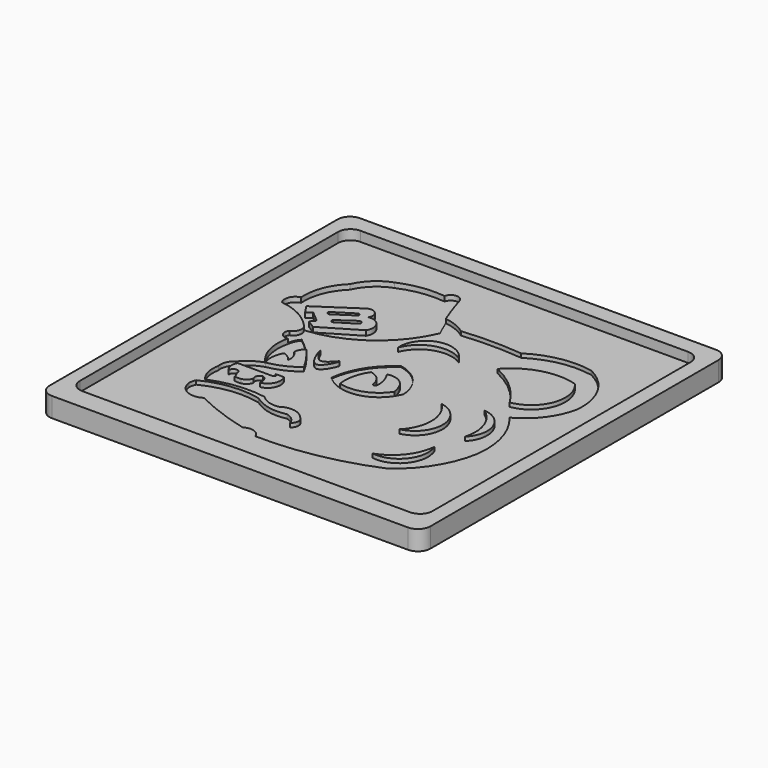
from build123d import *

# Parameters (mm, degrees)
F1_DEPTH = 5
F2_DEPTH = 3
F3_DEPTH = 2.5
F4_DEPTH = 10


with BuildPart() as f1:
    # F0 (on Top) → F1 (new body)
    with BuildSketch(Plane.XY):
        with BuildLine():
            Line((84.4249608159, 88.5654240847), (-82.2154240847, 88.5654240847))
            ThreePointArc((-82.2154240847, 88.5654240847), (-86.7055521452, 86.7055521452), (-88.5654240847, 82.2154240847))
            Line((-88.5654240847, 82.2154240847), (-88.5654240847, -81.8471716881))
            ThreePointArc((-88.5654240847, -81.8471716881), (-86.7055521452, -86.3372997486), (-82.2154240847, -88.1971716881))
            Line((-82.2154240847, -88.1971716881), (84.4249608159, -88.1971716881))
            ThreePointArc((84.4249608159, -88.1971716881), (88.9150888764, -86.3372997486), (90.7749608159, -81.8471716881))
            Line((90.7749608159, -81.8471716881), (90.7749608159, 82.2154240847))
            ThreePointArc((90.7749608159, 82.2154240847), (88.9150888764, 86.7055521452), (84.4249608159, 88.5654240847))
        make_face()
        with BuildLine():
            ThreePointArc((-62.7875477076, 57.6319694519), (-57.606849461, 65.0485479719), (-49.8986057937, 69.7843953967))
            ThreePointArc((-49.8986057937, 69.7843953967), (-38.6932867939, 72.9692608709), (-27.0448625088, 73.0986967683))
            ThreePointArc((-27.0448625088, 73.0986967683), (-23.3620079234, 76.1603482048), (-19.6791533381, 73.0986967683))
            ThreePointArc((-19.6791533381, 73.0986967683), (-17.2389814468, 65.5307254854), (-14.4308104565, 58.091451066))
            ThreePointArc((-14.4308104565, 58.091451066), (-8.4792833707, 56.5626230733), (-3.1063079368, 53.5811595619))
            ThreePointArc((-3.1063079368, 53.5811595619), (12.1775396401, 54.3361452989), (27.461387217, 53.5811595619))
            ThreePointArc((27.461387217, 53.5811595619), (42.3631176642, 59.5003092455), (58.3973675966, 59.473246336))
            ThreePointArc((58.3973675966, 59.473246336), (71.4266170924, 47.1940207122), (74.970215559, 29.6445582062))
            ThreePointArc((74.970215559, 29.6445582062), (69.1680433065, 16.7335554513), (58.3973675966, 7.5492351316))
            ThreePointArc((58.3973675966, 7.5492351316), (66.5921862821, -7.5634220418), (67.9315254092, -24.7026644647))
            ThreePointArc((67.9315254092, -24.7026644647), (61.1489606665, -42.7300074924), (48.1113679707, -56.907787919))
            ThreePointArc((48.1113679707, -56.907787919), (19.4322071761, -65.5613202295), (-10.420027189, -68.0557116866))
            ThreePointArc((-10.420027189, -68.0557116866), (-14.0655777602, -64.515040421), (-19.0913453698, -65.2687326074))
            ThreePointArc((-19.0913453698, -65.2687326074), (-33.3044679105, -60.9149895825), (-46.9634383917, -55.0497993827))
            ThreePointArc((-46.9634383917, -55.0497993827), (-55.1172893355, -55.3230586211), (-59.6607252955, -48.5468395054))
            ThreePointArc((-59.6607252955, -48.5468395054), (-59.4714942603, -46.762467778), (-58.8657595238, -45.073421812))
            ThreePointArc((-58.8657595238, -45.073421812), (-57.8778662819, -43.575470615), (-56.5638281405, -42.3535481095))
            ThreePointArc((-56.5638281405, -42.3535481095), (-59.5744291121, -36.5258235087), (-59.6607252955, -29.9669634551))
            ThreePointArc((-59.6607252955, -29.9669634551), (-59.2836893384, -25.7628592589), (-56.5638281405, -22.5350111723))
            ThreePointArc((-56.5638281405, -22.5350111723), (-52.2550509834, -18.5580474086), (-46.9634383917, -16.0320550203))
            ThreePointArc((-46.9634383917, -16.0320550203), (-52.70575672, -5.9539262239), (-52.8475493193, 5.6444699876))
            ThreePointArc((-52.8475493193, 5.6444699876), (-56.5637348257, 7.1926538), (-56.5638281405, 11.2184341997))
            ThreePointArc((-56.5638281405, 11.2184341997), (-53.7020296308, 14.2057132435), (-54.6662732959, 18.2286426425))
            ThreePointArc((-54.6662732959, 18.2286426425), (-63.4746227132, 25.1848782166), (-74.1854012012, 28.5397935659))
            ThreePointArc((-74.1854012012, 28.5397935659), (-74.6238412054, 33.448014682), (-70.8708316088, 36.6414114833))
            ThreePointArc((-70.8708316088, 36.6414114833), (-69.1975687177, 48.048732937), (-62.7875477076, 57.6319694519))
        make_face(mode=Mode.SUBTRACT)
        with BuildLine():
            ThreePointArc((-28.7225786597, -39.2803773284), (-42.8661816574, -38.7969014422), (-56.5638281405, -42.3535481095))
            ThreePointArc((-56.5638281405, -42.3535481095), (-57.8778662819, -43.575470615), (-58.8657595238, -45.073421812))
            ThreePointArc((-58.8657595238, -45.073421812), (-44.6417469149, -40.8053213785), (-29.8174992204, -41.6890047491))
            ThreePointArc((-29.8174992204, -41.6890047491), (-21.5812688527, -45.4725447649), (-12.5177744776, -45.411426574))
            ThreePointArc((-12.5177744776, -45.411426574), (-8.9704842296, -47.1376000359), (-6.8241944537, -50.4476428032))
            ThreePointArc((-6.8241944537, -50.4476428032), (-5.0707260091, -47.2726356238), (-6.8241944537, -44.0976284444))
            ThreePointArc((-6.8241944537, -44.0976284444), (-12.5072467027, -40.884526158), (-18.8683066517, -42.3535481095))
            ThreePointArc((-18.8683066517, -42.3535481095), (-24.193401272, -42.0930364333), (-28.7225786597, -39.2803773284))
        make_face()
    extrude(amount=F1_DEPTH)

    # F0 (on Top) → F4 (join)
    with BuildSketch(Plane.XY):
        with BuildLine():
            Line((91.9400634408, 96.8792364001), (-89.0944780946, 96.8792364001))
            ThreePointArc((-89.0944780946, 96.8792364001), (-93.5846061551, 95.0193644607), (-95.4444780946, 90.5292364001))
            Line((-95.4444780946, 90.5292364001), (-95.4444780946, -92.5884651184))
            ThreePointArc((-95.4444780946, -92.5884651184), (-93.5846061551, -97.0785931789), (-89.0944780946, -98.9384651184))
            Line((-89.0944780946, -98.9384651184), (91.9400634408, -98.9384651184))
            ThreePointArc((91.9400634408, -98.9384651184), (96.4301915013, -97.0785931789), (98.2900634408, -92.5884651184))
            Line((98.2900634408, -92.5884651184), (98.2900634408, 90.5292364001))
            ThreePointArc((98.2900634408, 90.5292364001), (96.4301915013, 95.0193644607), (91.9400634408, 96.8792364001))
        make_face()
        with BuildLine():
            ThreePointArc((-88.5654240847, 82.2154240847), (-86.7055521452, 86.7055521452), (-82.2154240847, 88.5654240847))
            Line((-82.2154240847, 88.5654240847), (84.4249608159, 88.5654240847))
            ThreePointArc((84.4249608159, 88.5654240847), (88.9150888764, 86.7055521452), (90.7749608159, 82.2154240847))
            Line((90.7749608159, 82.2154240847), (90.7749608159, -81.8471716881))
            ThreePointArc((90.7749608159, -81.8471716881), (88.9150888764, -86.3372997486), (84.4249608159, -88.1971716881))
            Line((84.4249608159, -88.1971716881), (-82.2154240847, -88.1971716881))
            ThreePointArc((-82.2154240847, -88.1971716881), (-86.7055521452, -86.3372997486), (-88.5654240847, -81.8471716881))
            Line((-88.5654240847, -81.8471716881), (-88.5654240847, 82.2154240847))
        make_face(mode=Mode.SUBTRACT)
    extrude(amount=F4_DEPTH)


with BuildPart() as f1b:
    # F0 (on Top) → F1, piece 2 (new body)
    with BuildSketch(Plane.XY):
        with BuildLine():
            ThreePointArc((50.8457347751, -30.7290349156), (45.9372802461, -42.9169442785), (35.2207049727, -50.5191199481))
            ThreePointArc((35.2207049727, -50.5191199481), (48.7227366321, -45.1161687372), (50.8457347751, -30.7290349156))
        make_face()
    extrude(amount=F1_DEPTH)


with BuildPart() as f1c:
    # F0 (on Top) → F1, piece 3 (new body)
    with BuildSketch(Plane.XY):
        with BuildLine():
            ThreePointArc((29.751945287, 0), (36.0598322415, -13.6346726912), (30.5331964046, -27.604283765))
            ThreePointArc((30.5331964046, -27.604283765), (41.5395779371, -13.4795859849), (29.751945287, 0))
        make_face()
    extrude(amount=F1_DEPTH)


with BuildPart() as f1d:
    # F0 (on Top) → F1, piece 4 (new body)
    with BuildSketch(Plane.XY):
        with BuildLine():
            Line((-37.5034287572, -23.2996158302), (-55.2411228418, -23.2996158302))
            ThreePointArc((-55.2411228418, -23.2996158302), (-55.8309711553, -26.9807912365), (-54.1462004185, -30.3065273911))
            ThreePointArc((-54.1462004185, -30.3065273911), (-52.1206017584, -27.8755716366), (-50.0950030982, -30.3065273911))
            ThreePointArc((-50.0950030982, -30.3065273911), (-49.3669318647, -31.6300955906), (-48.8905906677, -33.063629533))
            ThreePointArc((-48.8905906677, -33.063629533), (-47.3086831332, -33.1584654192), (-45.7267755987, -33.063629533))
            ThreePointArc((-45.7267755987, -33.063629533), (-43.3830718645, -31.9699605934), (-42.0725664327, -29.7402443656))
            ThreePointArc((-42.0725664327, -29.7402443656), (-42.2097596782, -27.2977722411), (-40.3502210975, -25.7082413882))
            ThreePointArc((-40.3502210975, -25.7082413882), (-38.134430128, -27.8129135924), (-37.8319062293, -30.8539420366))
            ThreePointArc((-37.8319062293, -30.8539420366), (-33.0655662363, -27.2116945709), (-33.3427377045, -21.2194379419))
            Line((-33.3427377045, -21.2194379419), (-37.5034287572, -21.2194379419))
            ThreePointArc((-37.5034287572, -21.2194379419), (-36.4633398131, -22.259526886), (-37.5034287572, -23.2996158302))
        make_face()
    extrude(amount=F1_DEPTH)


with BuildPart() as f1e:
    # F0 (on Top) → F1, piece 5 (new body)
    with BuildSketch(Plane.XY):
        with BuildLine():
            ThreePointArc((28.5292305052, 37.2948311269), (40.8829977308, 29.1688042971), (50.3098433953, 17.7765939093))
            ThreePointArc((50.3098433953, 17.7765939093), (63.9705009054, 29.0368778501), (60.5605430901, 46.4086867869))
            ThreePointArc((60.5605430901, 46.4086867869), (43.2055298805, 46.5590268442), (28.5292305052, 37.2948311269))
        make_face()
    extrude(amount=F1_DEPTH)


with BuildPart() as f1f:
    # F0 (on Top) → F1, piece 6 (new body)
    with BuildSketch(Plane.XY):
        with BuildLine():
            ThreePointArc((46.7472821474, 6.1718453653), (54.3905560283, -3.7442250043), (54.8495613039, -16.2557157767))
            ThreePointArc((54.8495613039, -16.2557157767), (57.9265772661, -2.4667864548), (46.7472821474, 6.1718453653))
        make_face()
    extrude(amount=F1_DEPTH)


with BuildPart() as f1g:
    # F0 (on Top) → F1, piece 7 (new body)
    with BuildSketch(Plane.XY):
        with BuildLine():
            ThreePointArc((-13.8354869559, 26.956371963), (-3.5072723159, 36.769350266), (10.6300180778, 35.0076518953))
            ThreePointArc((10.6300180778, 35.0076518953), (-4.7435913219, 40.526165222), (-13.8354869559, 26.956371963))
        make_face()
    extrude(amount=F1_DEPTH)


with BuildPart() as f1h:
    # F0 (on Top) → F1, piece 8 (new body)
    with BuildSketch(Plane.XY):
        with BuildLine():
            Line((-44.758892007, 45.182749629), (-64.5154863596, 31.9854691625))
            Line((-64.5154863596, 31.9854691625), (-61.5930639356, 27.6105440024))
            Line((-61.5930639356, 27.6105440024), (-58.9106027107, 29.4024111883))
            Line((-58.9106027107, 29.4024111883), (-53.4457729719, 24.8212735707))
            Line((-53.4457729719, 24.8212735707), (-55.4794549685, 22.3952984567))
            Line((-55.4794549685, 22.3952984567), (-51.3468310237, 19.7383146733))
            Line((-51.3468310237, 19.7383146733), (-33.0525264144, 30.6098442525))
            ThreePointArc((-33.0525264144, 30.6098442525), (-33.1104304301, 37.2790456688), (-39.2192006111, 39.9557091296))
            ThreePointArc((-39.2192006111, 39.9557091296), (-39.9072019292, 44.7755974761), (-44.758892007, 45.182749629))
        make_face()
        with BuildLine():
            ThreePointArc((-52.771281451, 32.3372147977), (-54.112445977, 32.4424190256), (-54.3336570263, 33.7693914771))
            Line((-54.3336570263, 33.7693914771), (-44.8292084038, 39.7584997118))
            ThreePointArc((-44.8292084038, 39.7584997118), (-43.6708962727, 39.7237156441), (-43.2668328285, 38.6376080723))
            Line((-43.2668328285, 38.6376080723), (-52.771281451, 32.3372147977))
        make_face(mode=Mode.SUBTRACT)
        with BuildLine():
            ThreePointArc((-47.4007800221, 27.8951153159), (-48.6566058264, 28.0366111273), (-48.8195233047, 29.2898379266))
            Line((-48.8195233047, 29.2898379266), (-40.6908281147, 34.9025093019))
            ThreePointArc((-40.6908281147, 34.9025093019), (-38.9460065957, 35.0712439545), (-38.5180450976, 33.3713255823))
            Line((-38.5180450976, 33.3713255823), (-47.4007800221, 27.8951153159))
        make_face(mode=Mode.SUBTRACT)
    extrude(amount=F1_DEPTH)


with BuildPart() as f1i:
    # F0 (on Top) → F1, piece 9 (new body)
    with BuildSketch(Plane.XY):
        with BuildLine():
            ThreePointArc((-46.0808910429, -5.1327659748), (-47.7597090193, -10.4822029117), (-46.9634383917, -16.0320550203))
            ThreePointArc((-46.9634383917, -16.0320550203), (-39.3304755247, -13.7182455163), (-32.5323306024, -9.546787478))
            ThreePointArc((-32.5323306024, -9.546787478), (-36.5111631058, -3.1176660128), (-41.1961520186, 2.8166064609))
            ThreePointArc((-41.1961520186, 2.8166064609), (-43.0512766756, 0.8979108846), (-43.7268130481, -1.6840517055))
            ThreePointArc((-43.7268130481, -1.6840517055), (-41.5921632224, -4.8430030502), (-41.2084981799, -8.6362212896))
            ThreePointArc((-41.2084981799, -8.6362212896), (-43.3629876257, -6.4927126665), (-46.0808910429, -5.1327659748))
        make_face()
    extrude(amount=F1_DEPTH)


with BuildPart() as f1j:
    # F0 (on Top) → F1, piece 10 (new body)
    with BuildSketch(Plane.XY):
        with BuildLine():
            ThreePointArc((-8.963325889, 3.7377043627), (-12.1480532606, -3.6241338577), (-12.4719647189, -11.6387599739))
            ThreePointArc((-12.4719647189, -11.6387599739), (-0.5281101344, -11.149436168), (8.7624308228, -3.6274052691))
            ThreePointArc((8.7624308228, -3.6274052691), (8.3392858217, -1.4682088947), (7.5841476209, 0.5984180607))
            ThreePointArc((7.5841476209, 0.5984180607), (3.456502409, 5.445016188), (-2.8678874951, 6.1723818071))
            ThreePointArc((-2.8678874951, 6.1723818071), (-0.6241944342, 1.5094597371), (0, -3.6274052691))
            ThreePointArc((0, -3.6274052691), (-0.9730836027, -4.4821055882), (-1.9461672055, -3.6274052691))
            ThreePointArc((-1.9461672055, -3.6274052691), (-4.2264778217, 1.2253909939), (-8.963325889, 3.7377043627))
        make_face()
    extrude(amount=F1_DEPTH)


with BuildPart() as f1k:
    # F0 (on Top) → F1, piece 11 (new body)
    with BuildSketch(Plane.XY):
        with BuildLine():
            add(Edge.make_bspline(
                [(-36.4063940942, 5.8001559228), (-36.5694243516, 5.4985822789), (-30.7997676093, -13.1948048335), (-21.3384004347, 9.3466398233), (-31.4326805196, -7.0507418922), (-36.2661790879, 6.059525877), (-36.4063940942, 5.8001559228)],
                knots=[0, 0, 0, 0, 0.2821298962, 0.5338759449, 0.7573527404, 1, 1, 1, 1], degree=3))
        make_face()
    extrude(amount=F1_DEPTH)


with BuildPart() as f2:
    # F0 (on Top) → F2 (new body)
    with BuildSketch(Plane.XY):
        with BuildLine():
            ThreePointArc((-3.1063079368, 53.5811595619), (-8.4792833707, 56.5626230733), (-14.4308104565, 58.091451066))
            ThreePointArc((-14.4308104565, 58.091451066), (-12.6920500857, 53.9702701134), (-10.8403023332, 49.8986057937))
            ThreePointArc((-10.8403023332, 49.8986057937), (-28.3740077738, 28.0034277162), (-54.6662732959, 18.2286426425))
            ThreePointArc((-54.6662732959, 18.2286426425), (-53.7020296308, 14.2057132435), (-56.5638281405, 11.2184341997))
            ThreePointArc((-56.5638281405, 11.2184341997), (-56.5637348257, 7.1926538), (-52.8475493193, 5.6444699876))
            ThreePointArc((-52.8475493193, 5.6444699876), (-52.0523485289, 8.6980112297), (-50.3127127886, 11.3305244595))
            ThreePointArc((-50.3127127886, 11.3305244595), (-45.5537412304, 7.2884622066), (-41.1961520186, 2.8166064609))
            ThreePointArc((-41.1961520186, 2.8166064609), (-36.5111631058, -3.1176660128), (-32.5323306024, -9.546787478))
            ThreePointArc((-32.5323306024, -9.546787478), (-39.3304755247, -13.7182455163), (-46.9634383917, -16.0320550203))
            ThreePointArc((-46.9634383917, -16.0320550203), (-52.2550509834, -18.5580474086), (-56.5638281405, -22.5350111723))
            ThreePointArc((-56.5638281405, -22.5350111723), (-59.2836893384, -25.7628592589), (-59.6607252955, -29.9669634551))
            ThreePointArc((-59.6607252955, -29.9669634551), (-59.5744291121, -36.5258235087), (-56.5638281405, -42.3535481095))
            ThreePointArc((-56.5638281405, -42.3535481095), (-42.8661816574, -38.7969014422), (-28.7225786597, -39.2803773284))
            ThreePointArc((-28.7225786597, -39.2803773284), (-24.193401272, -42.0930364333), (-18.8683066517, -42.3535481095))
            ThreePointArc((-18.8683066517, -42.3535481095), (-12.5072467027, -40.884526158), (-6.8241944537, -44.0976284444))
            ThreePointArc((-6.8241944537, -44.0976284444), (-5.0707260091, -47.2726356238), (-6.8241944537, -50.4476428032))
            ThreePointArc((-6.8241944537, -50.4476428032), (-8.9704842296, -47.1376000359), (-12.5177744776, -45.411426574))
            ThreePointArc((-12.5177744776, -45.411426574), (-21.5812688527, -45.4725447649), (-29.8174992204, -41.6890047491))
            ThreePointArc((-29.8174992204, -41.6890047491), (-44.6417469149, -40.8053213785), (-58.8657595238, -45.073421812))
            ThreePointArc((-58.8657595238, -45.073421812), (-59.4714942603, -46.762467778), (-59.6607252955, -48.5468395054))
            ThreePointArc((-59.6607252955, -48.5468395054), (-55.1172893355, -55.3230586211), (-46.9634383917, -55.0497993827))
            ThreePointArc((-46.9634383917, -55.0497993827), (-33.3044679105, -60.9149895825), (-19.0913453698, -65.2687326074))
            ThreePointArc((-19.0913453698, -65.2687326074), (-14.0655777602, -64.515040421), (-10.420027189, -68.0557116866))
            ThreePointArc((-10.420027189, -68.0557116866), (19.4322071761, -65.5613202295), (48.1113679707, -56.907787919))
            ThreePointArc((48.1113679707, -56.907787919), (61.1489606665, -42.7300074924), (67.9315254092, -24.7026644647))
            ThreePointArc((67.9315254092, -24.7026644647), (66.5921862821, -7.5634220418), (58.3973675966, 7.5492351316))
            ThreePointArc((58.3973675966, 7.5492351316), (69.1680433065, 16.7335554513), (74.970215559, 29.6445582062))
            ThreePointArc((74.970215559, 29.6445582062), (71.4266170924, 47.1940207122), (58.3973675966, 59.473246336))
            ThreePointArc((58.3973675966, 59.473246336), (42.3631176642, 59.5003092455), (27.461387217, 53.5811595619))
            ThreePointArc((27.461387217, 53.5811595619), (12.1775396401, 54.3361452989), (-3.1063079368, 53.5811595619))
        make_face()
        with BuildLine():
            ThreePointArc((-54.1462004185, -30.3065273911), (-55.8309711553, -26.9807912365), (-55.2411228418, -23.2996158302))
            Line((-55.2411228418, -23.2996158302), (-37.5034287572, -23.2996158302))
            ThreePointArc((-37.5034287572, -23.2996158302), (-36.4633398131, -22.259526886), (-37.5034287572, -21.2194379419))
            Line((-37.5034287572, -21.2194379419), (-33.3427377045, -21.2194379419))
            ThreePointArc((-33.3427377045, -21.2194379419), (-33.0655662363, -27.2116945709), (-37.8319062293, -30.8539420366))
            ThreePointArc((-37.8319062293, -30.8539420366), (-38.134430128, -27.8129135924), (-40.3502210975, -25.7082413882))
            ThreePointArc((-40.3502210975, -25.7082413882), (-42.2097596782, -27.2977722411), (-42.0725664327, -29.7402443656))
            ThreePointArc((-42.0725664327, -29.7402443656), (-43.3830718645, -31.9699605934), (-45.7267755987, -33.063629533))
            ThreePointArc((-45.7267755987, -33.063629533), (-47.3086831332, -33.1584654192), (-48.8905906677, -33.063629533))
            ThreePointArc((-48.8905906677, -33.063629533), (-49.3669318647, -31.6300955906), (-50.0950030982, -30.3065273911))
            ThreePointArc((-50.0950030982, -30.3065273911), (-52.1206017584, -27.8755716366), (-54.1462004185, -30.3065273911))
        make_face(mode=Mode.SUBTRACT)
        with BuildLine():
            add(Edge.make_bspline(
                [(-36.4063940942, 5.8001559228), (-36.5694243516, 5.4985822789), (-30.7997676093, -13.1948048335), (-21.3384004347, 9.3466398233), (-31.4326805196, -7.0507418922), (-36.2661790879, 6.059525877), (-36.4063940942, 5.8001559228)],
                knots=[0, 0, 0, 0, 0.2821298962, 0.5338759449, 0.7573527404, 1, 1, 1, 1], degree=3))
        make_face(mode=Mode.SUBTRACT)
        with BuildLine():
            ThreePointArc((50.8457347751, -30.7290349156), (48.7227366321, -45.1161687372), (35.2207049727, -50.5191199481))
            ThreePointArc((35.2207049727, -50.5191199481), (45.9372802461, -42.9169442785), (50.8457347751, -30.7290349156))
        make_face(mode=Mode.SUBTRACT)
        with BuildLine():
            ThreePointArc((29.751945287, 0), (41.5395779371, -13.4795859849), (30.5331964046, -27.604283765))
            ThreePointArc((30.5331964046, -27.604283765), (36.0598322415, -13.6346726912), (29.751945287, 0))
        make_face(mode=Mode.SUBTRACT)
        with BuildLine():
            ThreePointArc((46.7472821474, 6.1718453653), (57.9265772661, -2.4667864548), (54.8495613039, -16.2557157767))
            ThreePointArc((54.8495613039, -16.2557157767), (54.3905560283, -3.7442250043), (46.7472821474, 6.1718453653))
        make_face(mode=Mode.SUBTRACT)
        with BuildLine():
            ThreePointArc((-20.7287278026, -6.7575736903), (-15.7254695946, 7.4260269787), (-5.2607376128, 18.2286426425))
            ThreePointArc((-5.2607376128, 18.2286426425), (5.8052943742, 11.8490785925), (10.5755394325, 0))
            ThreePointArc((10.5755394325, 0), (9.7659852722, -1.862186822), (8.7624308228, -3.6274052691))
            ThreePointArc((8.7624308228, -3.6274052691), (-0.5281101344, -11.149436168), (-12.4719647189, -11.6387599739))
            ThreePointArc((-12.4719647189, -11.6387599739), (-16.9132519611, -9.7274619839), (-20.7287278026, -6.7575736903))
        make_face(mode=Mode.SUBTRACT)
        with BuildLine():
            ThreePointArc((-13.8354869559, 26.956371963), (-4.7435913219, 40.526165222), (10.6300180778, 35.0076518953))
            ThreePointArc((10.6300180778, 35.0076518953), (-3.5072723159, 36.769350266), (-13.8354869559, 26.956371963))
        make_face(mode=Mode.SUBTRACT)
        with BuildLine():
            ThreePointArc((60.5605430901, 46.4086867869), (63.9705009054, 29.0368778501), (50.3098433953, 17.7765939093))
            ThreePointArc((50.3098433953, 17.7765939093), (40.8829977308, 29.1688042971), (28.5292305052, 37.2948311269))
            ThreePointArc((28.5292305052, 37.2948311269), (43.2055298805, 46.5590268442), (60.5605430901, 46.4086867869))
        make_face(mode=Mode.SUBTRACT)
    extrude(amount=F2_DEPTH)


with BuildPart() as f3:
    # F0 (on Top) → F3 (new body)
    with BuildSketch(Plane.XY):
        with BuildLine():
            ThreePointArc((10.5755394325, 0), (5.8052943742, 11.8490785925), (-5.2607376128, 18.2286426425))
            ThreePointArc((-5.2607376128, 18.2286426425), (-15.7254695946, 7.4260269787), (-20.7287278026, -6.7575736903))
            ThreePointArc((-20.7287278026, -6.7575736903), (-16.9132519611, -9.7274619839), (-12.4719647189, -11.6387599739))
            ThreePointArc((-12.4719647189, -11.6387599739), (-12.1480532606, -3.6241338577), (-8.963325889, 3.7377043627))
            ThreePointArc((-8.963325889, 3.7377043627), (-4.2264778217, 1.2253909939), (-1.9461672055, -3.6274052691))
            ThreePointArc((-1.9461672055, -3.6274052691), (-0.9730836027, -4.4821055882), (0, -3.6274052691))
            ThreePointArc((0, -3.6274052691), (-0.6241944342, 1.5094597371), (-2.8678874951, 6.1723818071))
            ThreePointArc((-2.8678874951, 6.1723818071), (3.456502409, 5.445016188), (7.5841476209, 0.5984180607))
            ThreePointArc((7.5841476209, 0.5984180607), (8.3392858217, -1.4682088947), (8.7624308228, -3.6274052691))
            ThreePointArc((8.7624308228, -3.6274052691), (9.7659852722, -1.862186822), (10.5755394325, 0))
        make_face()
    extrude(amount=F3_DEPTH)


with BuildPart() as f3b:
    # F0 (on Top) → F3, piece 2 (new body)
    with BuildSketch(Plane.XY):
        with BuildLine():
            ThreePointArc((-50.3127127886, 11.3305244595), (-52.0523485289, 8.6980112297), (-52.8475493193, 5.6444699876))
            ThreePointArc((-52.8475493193, 5.6444699876), (-52.70575672, -5.9539262239), (-46.9634383917, -16.0320550203))
            ThreePointArc((-46.9634383917, -16.0320550203), (-47.7597090193, -10.4822029117), (-46.0808910429, -5.1327659748))
            ThreePointArc((-46.0808910429, -5.1327659748), (-43.3629876257, -6.4927126665), (-41.2084981799, -8.6362212896))
            ThreePointArc((-41.2084981799, -8.6362212896), (-41.5921632224, -4.8430030502), (-43.7268130481, -1.6840517055))
            ThreePointArc((-43.7268130481, -1.6840517055), (-43.0512766756, 0.8979108846), (-41.1961520186, 2.8166064609))
            ThreePointArc((-41.1961520186, 2.8166064609), (-45.5537412304, 7.2884622066), (-50.3127127886, 11.3305244595))
        make_face()
    extrude(amount=F3_DEPTH)


with BuildPart() as f3c:
    # F0 (on Top) → F3, piece 3 (new body)
    with BuildSketch(Plane.XY):
        with BuildLine():
            ThreePointArc((-62.7875477076, 57.6319694519), (-54.3110131277, 61.5529625431), (-49.8986057937, 69.7843953967))
            ThreePointArc((-49.8986057937, 69.7843953967), (-57.606849461, 65.0485479719), (-62.7875477076, 57.6319694519))
        make_face()
        with BuildLine():
            ThreePointArc((-27.0448625088, 73.0986967683), (-38.6932867939, 72.9692608709), (-49.8986057937, 69.7843953967))
            ThreePointArc((-49.8986057937, 69.7843953967), (-54.3110131277, 61.5529625431), (-62.7875477076, 57.6319694519))
            ThreePointArc((-62.7875477076, 57.6319694519), (-69.1975687177, 48.048732937), (-70.8708316088, 36.6414114833))
            ThreePointArc((-70.8708316088, 36.6414114833), (-74.6238412054, 33.448014682), (-74.1854012012, 28.5397935659))
            ThreePointArc((-74.1854012012, 28.5397935659), (-45.8965897441, 49.5523504071), (-19.6791533381, 73.0986967683))
            ThreePointArc((-19.6791533381, 73.0986967683), (-23.3620079234, 76.1603482048), (-27.0448625088, 73.0986967683))
        make_face()
        with BuildLine():
            ThreePointArc((-14.4308104565, 58.091451066), (-17.2389814468, 65.5307254854), (-19.6791533381, 73.0986967683))
            ThreePointArc((-19.6791533381, 73.0986967683), (-45.8965897441, 49.5523504071), (-74.1854012012, 28.5397935659))
            ThreePointArc((-74.1854012012, 28.5397935659), (-63.4746227132, 25.1848782166), (-54.6662732959, 18.2286426425))
            ThreePointArc((-54.6662732959, 18.2286426425), (-28.3740077738, 28.0034277162), (-10.8403023332, 49.8986057937))
            ThreePointArc((-10.8403023332, 49.8986057937), (-12.6920500857, 53.9702701134), (-14.4308104565, 58.091451066))
        make_face()
        with BuildLine():
            Line((-61.5930639356, 27.6105440024), (-64.5154863596, 31.9854691625))
            Line((-64.5154863596, 31.9854691625), (-44.758892007, 45.182749629))
            ThreePointArc((-44.758892007, 45.182749629), (-39.9072019292, 44.7755974761), (-39.2192006111, 39.9557091296))
            ThreePointArc((-39.2192006111, 39.9557091296), (-33.1104304301, 37.2790456688), (-33.0525264144, 30.6098442525))
            Line((-33.0525264144, 30.6098442525), (-51.3468310237, 19.7383146733))
            Line((-51.3468310237, 19.7383146733), (-55.4794549685, 22.3952984567))
            Line((-55.4794549685, 22.3952984567), (-53.4457729719, 24.8212735707))
            Line((-53.4457729719, 24.8212735707), (-58.9106027107, 29.4024111883))
            Line((-58.9106027107, 29.4024111883), (-61.5930639356, 27.6105440024))
        make_face(mode=Mode.SUBTRACT)
    extrude(amount=F3_DEPTH)


with BuildPart() as f3d:
    # F0 (on Top) → F3, piece 4 (new body)
    with BuildSketch(Plane.XY):
        with BuildLine():
            Line((-40.6908281147, 34.9025093019), (-48.8195233047, 29.2898379266))
            ThreePointArc((-48.8195233047, 29.2898379266), (-48.6566058264, 28.0366111273), (-47.4007800221, 27.8951153159))
            Line((-47.4007800221, 27.8951153159), (-38.5180450976, 33.3713255823))
            ThreePointArc((-38.5180450976, 33.3713255823), (-38.9460065957, 35.0712439545), (-40.6908281147, 34.9025093019))
        make_face()
    extrude(amount=F3_DEPTH)


with BuildPart() as f3e:
    # F0 (on Top) → F3, piece 5 (new body)
    with BuildSketch(Plane.XY):
        with BuildLine():
            Line((-44.8292084038, 39.7584997118), (-54.3336570263, 33.7693914771))
            ThreePointArc((-54.3336570263, 33.7693914771), (-54.112445977, 32.4424190256), (-52.771281451, 32.3372147977))
            Line((-52.771281451, 32.3372147977), (-43.2668328285, 38.6376080723))
            ThreePointArc((-43.2668328285, 38.6376080723), (-43.6708962727, 39.7237156441), (-44.8292084038, 39.7584997118))
        make_face()
    extrude(amount=F3_DEPTH)


solid = Compound([f1.part, f1b.part, f1c.part, f1d.part, f1e.part, f1f.part, f1g.part, f1h.part, f1i.part, f1j.part, f1k.part, f2.part, f3.part, f3b.part, f3c.part, f3d.part, f3e.part])
